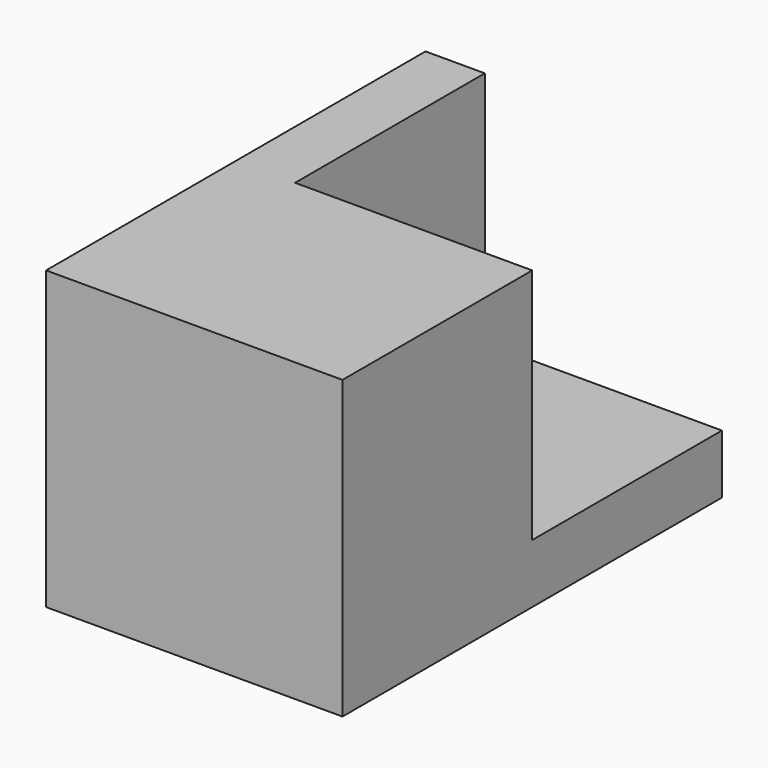
from build123d import *

# Parameters (mm, degrees)
F0_W     = 25.4
F0_H     = 31.75
F1_DEPTH = 31.75
F2_W     = 6.35
F2_H     = 31.75
F3_DEPTH = 25.4
F4_W     = 25.4
F4_H     = 6.3268248923
F5_DEPTH = 25.4


with BuildPart() as f1:
    # F0 (on Right) → F1 (new body)
    with BuildSketch(Plane.YZ):
        with Locations((12.7, 15.875)):
            Rectangle(F0_W, F0_H)
    extrude(amount=F1_DEPTH)

    # F2 (on face) → F3 (join)
    with BuildSketch(Plane(origin=(0, 25.4, 0), x_dir=(-1, 0, 0), z_dir=(0, 1, 0))):
        with Locations((-3.175, 15.875)):
            Rectangle(F2_W, F2_H)
    extrude(amount=F3_DEPTH)

    # F4 (on face) → F5 (join)
    with BuildSketch(Plane.YZ.offset(6.35)):
        with Locations((38.1, 3.1634124462)):
            Rectangle(F4_W, F4_H)
    extrude(amount=F5_DEPTH)


solid = f1.part
